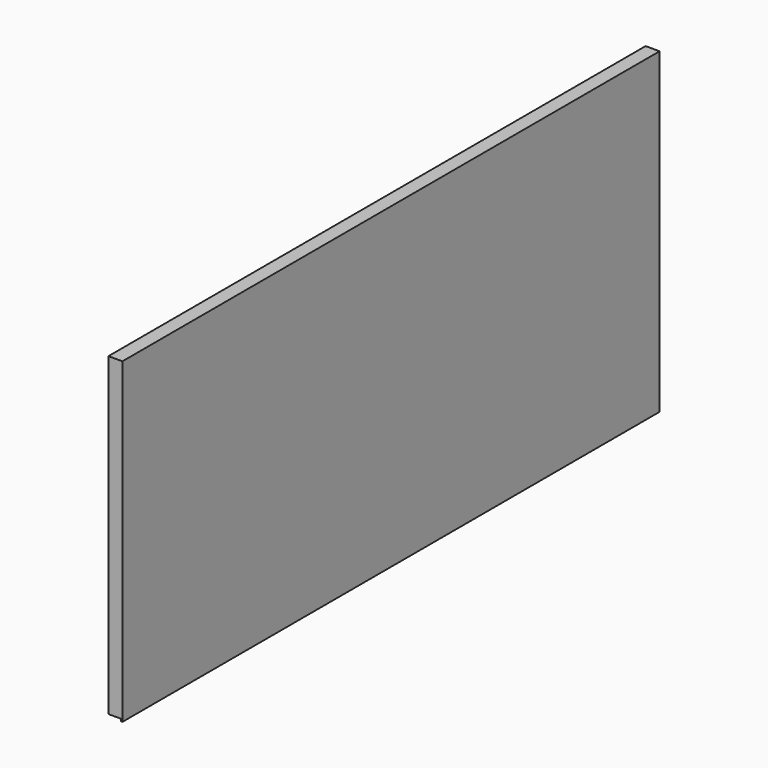
from build123d import *

# Parameters (mm, degrees)
F0_W     = 139.7
F0_H     = 7315.2
F1_DEPTH = 38.1
F3_DEPTH = 139.7
F4_W     = 38.1
F4_H     = 139.7
F4_W_2   = 139.7
F4_H_2   = 38.1
F5_DEPTH = 3318.7894
F6_W     = 7315.2
F6_H     = 3458.4894
F7_DEPTH = 12.7


with BuildPart() as f1:
    # F0 (on Top) → F1 (new body)
    with BuildSketch(Plane.XY):
        Rectangle(F0_W, F0_H)
    extrude(amount=F1_DEPTH)

    # F2 (on face) → F3 (join, through all)
    with BuildSketch(Plane.YZ.offset(69.85)):
        Polygon((3657.6, 3433.0894), (-3657.6, 3433.0894), (-3657.6, 38.1), (-3619.5, 38.1), (-3619.5, 3356.8894), (3619.5, 3356.8894), (3619.5, 38.1), (3657.6, 38.1), align=None)
    extrude(amount=-F3_DEPTH)

    # F4 (on face) → F5 (join, through all)
    with BuildSketch(Plane.XY.offset(38.1)):
        with Locations((-50.8, -3549.65)):
            Rectangle(F4_W, F4_H)
        with Locations((0, -3232.15)):
            Rectangle(F4_W_2, F4_H_2)
        with Locations((0, -2825.75)):
            Rectangle(F4_W_2, F4_H_2)
        with Locations((0, -2419.35)):
            Rectangle(F4_W_2, F4_H_2)
        with Locations((0, -2012.95)):
            Rectangle(F4_W_2, F4_H_2)
        with Locations((0, -1606.55)):
            Rectangle(F4_W_2, F4_H_2)
        with Locations((0, -1200.15)):
            Rectangle(F4_W_2, F4_H_2)
        with Locations((0, -793.75)):
            Rectangle(F4_W_2, F4_H_2)
        with Locations((0, -387.35)):
            Rectangle(F4_W_2, F4_H_2)
        with Locations((0, 19.05)):
            Rectangle(F4_W_2, F4_H_2)
        with Locations((0, 425.45)):
            Rectangle(F4_W_2, F4_H_2)
        with Locations((0, 831.85)):
            Rectangle(F4_W_2, F4_H_2)
        with Locations((0, 1238.25)):
            Rectangle(F4_W_2, F4_H_2)
        with Locations((0, 1644.65)):
            Rectangle(F4_W_2, F4_H_2)
        with Locations((0, 2051.05)):
            Rectangle(F4_W_2, F4_H_2)
        with Locations((0, 2457.45)):
            Rectangle(F4_W_2, F4_H_2)
        with Locations((0, 2863.85)):
            Rectangle(F4_W_2, F4_H_2)
        with Locations((0, 3270.25)):
            Rectangle(F4_W_2, F4_H_2)
        with Locations((-50.8, 3549.65)):
            Rectangle(F4_W, F4_H)
    extrude(amount=F5_DEPTH)

    # F6 (on face) → F7 (join)
    with BuildSketch(Plane.YZ.offset(69.85)):
        with Locations((0, 1703.8447)):
            Rectangle(F6_W, F6_H)
    extrude(amount=F7_DEPTH)


solid = f1.part
